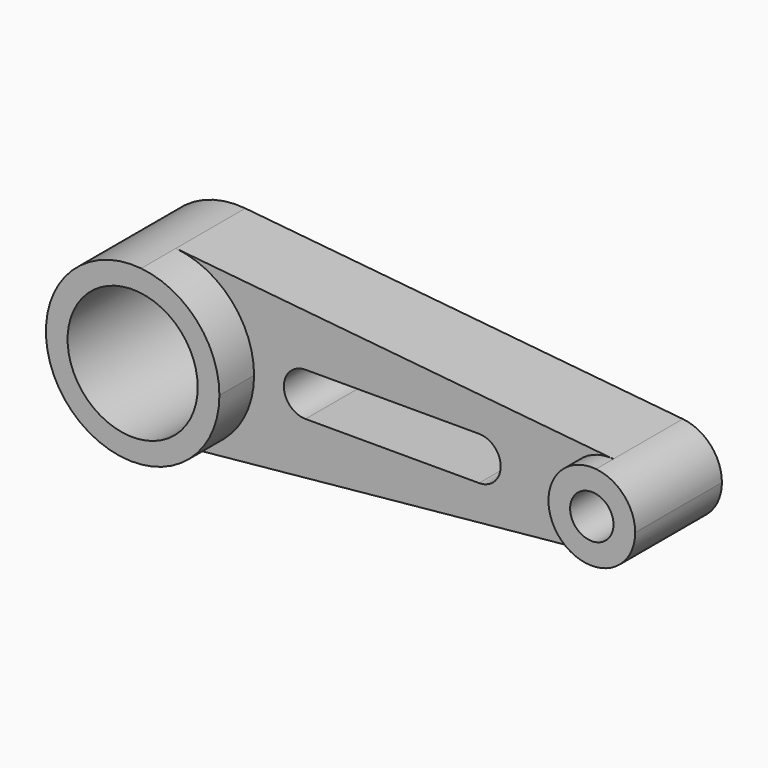
from build123d import *

# Parameters (mm, degrees)
F0_R     = 19.05
F1_DEPTH = 38.1
F2_DEPTH = 25.4
F0_R_2   = 6.35
F3_DEPTH = 31.75


with BuildPart() as f1:
    # F0 (on Front) → F1 (new body)
    with BuildSketch(Plane.XZ):
        with BuildLine():
            ThreePointArc((-55.877387, -25.277314), (-39.549404, -17.05617), (-32.970856, 0))
            ThreePointArc((-32.970856, 0), (-39.549404, 17.05617), (-55.877387, 25.277314))
            ThreePointArc((-55.877387, 25.277314), (-83.770856, 0), (-55.877387, -25.277314))
        make_face()
        with Locations((-58.370856, 0)):
            Circle(F0_R, mode=Mode.SUBTRACT)
    extrude(amount=F1_DEPTH)

    # F0 (on Front) → F2 (join)
    with BuildSketch(Plane.XZ):
        with BuildLine():
            ThreePointArc((-55.877387, 25.277314), (-39.549404, 17.05617), (-32.970856, 0))
            ThreePointArc((-32.970856, 0), (-39.549404, -17.05617), (-55.877387, -25.277314))
            Line((-55.877387, -25.277314), (72.245812, -12.638657))
            ThreePointArc((72.245812, -12.638657), (58.299077, 0), (72.245812, 12.638657))
            Line((72.245812, 12.638657), (-55.877387, 25.277314))
        make_face()
        with BuildLine():
            ThreePointArc((-17.900923, -6.35), (-24.250923, 0), (-17.900923, 6.35))
            Line((-17.900923, 6.35), (32.899077, 6.35))
            ThreePointArc((32.899077, 6.35), (37.389205, 4.490128), (39.249077, 0))
            ThreePointArc((39.249077, 0), (37.389205, -4.490128), (32.899077, -6.35))
            Line((32.899077, -6.35), (-17.900923, -6.35))
        make_face(mode=Mode.SUBTRACT)
    extrude(amount=F2_DEPTH)

    # F0 (on Front) → F3 (join)
    with BuildSketch(Plane.XZ):
        with BuildLine():
            ThreePointArc((83.699077, 0), (80.409803, 8.528085), (72.245812, 12.638657))
            ThreePointArc((72.245812, 12.638657), (58.299077, 0), (72.245812, -12.638657))
            ThreePointArc((72.245812, -12.638657), (80.409803, -8.528085), (83.699077, 0))
        make_face()
        with Locations((70.999077, 0)):
            Circle(F0_R_2, mode=Mode.SUBTRACT)
    extrude(amount=F3_DEPTH)


solid = f1.part
